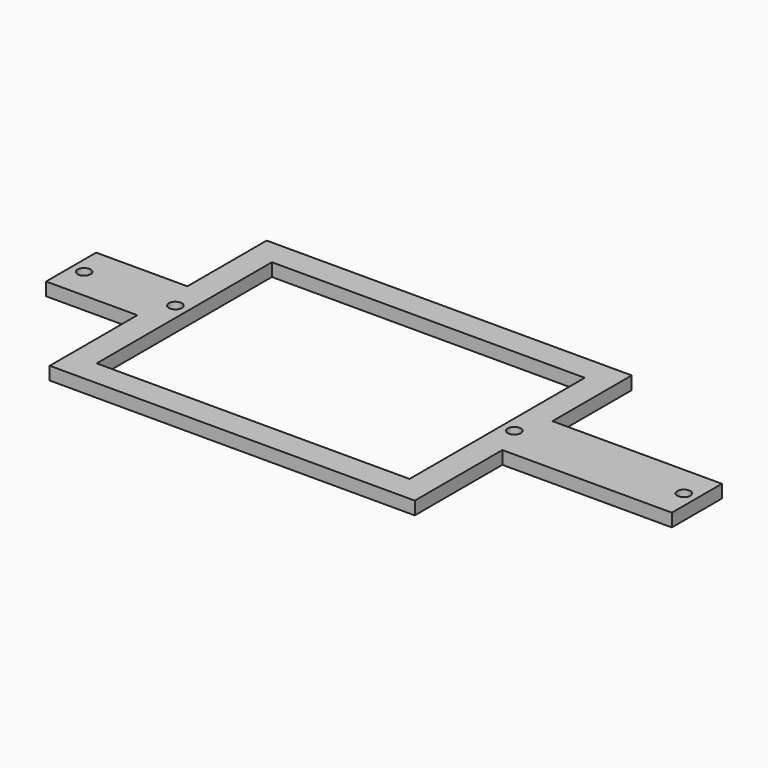
from build123d import *

# Parameters (mm, degrees)
BOX015_W               = 120
BOX015_H               = 30
BOX015_DEPTH           = 84
CYLINDER069_R          = 2.5
CYLINDER069_DEPTH      = 10
CYLINDER070_R          = 2.5
CYLINDER070_DEPTH      = 10
CYLINDER071_R          = 2.5
CYLINDER071_DEPTH      = 10
CYLINDER072_R          = 2.5
CYLINDER072_DEPTH      = 10
CYLINDER068_R          = 2.5
CYLINDER068_DEPTH      = 10
CYLINDER073_R          = 2.5
CYLINDER073_DEPTH      = 10
BOX009_W               = 240
BOX009_H               = 5
BOX009_DEPTH           = 24
BOX010_W               = 140
BOX010_H               = 5
BOX010_DEPTH           = 38
BOX011_W               = 140
BOX011_H               = 5
BOX011_DEPTH           = 42
CUT008_PLACEMENT_ANGLE = 270


with BuildPart() as gatewaycut001:
    # Box015 → Box015 (new body)
    with BuildSketch(Plane(origin=(-75, -3.2, -75), x_dir=(1, 0, 0), z_dir=(0, 0, 1))):
        with Locations((60, 15)):
            Rectangle(BOX015_W, BOX015_H)
    extrude(amount=BOX015_DEPTH)


with BuildPart() as cylinder069:
    # Cylinder069 → Cylinder069 (new body)
    with BuildSketch(Plane(origin=(115, 0, -31), x_dir=(1, 0, 0), z_dir=(0, -1, 0))):
        Circle(CYLINDER069_R)
    extrude(amount=CYLINDER069_DEPTH)


with BuildPart() as cylinder070:
    # Cylinder070 → Cylinder070 (new body)
    with BuildSketch(Plane(origin=(-80, 0, -31), x_dir=(1, 0, 0), z_dir=(0, -1, 0))):
        Circle(CYLINDER070_R)
    extrude(amount=CYLINDER070_DEPTH)


with BuildPart() as cylinder071:
    # Cylinder071 → Cylinder071 (new body)
    with BuildSketch(Plane(origin=(50, 0, -31), x_dir=(1, 0, 0), z_dir=(0, -1, 0))):
        Circle(CYLINDER071_R)
    extrude(amount=CYLINDER071_DEPTH)


with BuildPart() as cylinder072:
    # Cylinder072 → Cylinder072 (new body)
    with BuildSketch(Plane(origin=(-45.75, 0, -56.3), x_dir=(1, 0, 0), z_dir=(0, -1, 0))):
        Circle(CYLINDER072_R)
    extrude(amount=CYLINDER072_DEPTH)


with BuildPart() as cylinder068:
    # Cylinder068 → Cylinder068 (new body)
    with BuildSketch(Plane(origin=(-115, 0, -31), x_dir=(1, 0, 0), z_dir=(0, -1, 0))):
        Circle(CYLINDER068_R)
    extrude(amount=CYLINDER068_DEPTH)


with BuildPart() as m3heatsetinserts003:
    # Cylinder073 → Cylinder073 (new body)
    with BuildSketch(Plane(origin=(-45.75, 0, -1.3), x_dir=(1, 0, 0), z_dir=(0, -1, 0))):
        Circle(CYLINDER073_R)
    extrude(amount=CYLINDER073_DEPTH)

    # Fusion025: union Cylinder069, Cylinder070, Cylinder071, Cylinder072, Cylinder068
    add(cylinder069.part)
    add(cylinder070.part)
    add(cylinder071.part)
    add(cylinder072.part)
    add(cylinder068.part)


with BuildPart() as m3heatsetinserts003_1:
    # Fusion025 placement: moved
    add(m3heatsetinserts003.part.moved(Location((0, 5.1, 0))))


with BuildPart() as cube007:
    # Box009 → Box009 (new body)
    with BuildSketch(Plane(origin=(-120, 0, -43), x_dir=(1, 0, 0), z_dir=(0, 0, 1))):
        with Locations((120, 2.5)):
            Rectangle(BOX009_W, BOX009_H)
    extrude(amount=BOX009_DEPTH)


with BuildPart() as cube008:
    # Box010 → Box010 (new body)
    with BuildSketch(Plane(origin=(-85, 0, -19), x_dir=(1, 0, 0), z_dir=(0, 0, 1))):
        with Locations((70, 2.5)):
            Rectangle(BOX010_W, BOX010_H)
    extrude(amount=BOX010_DEPTH)


with BuildPart() as mainbase001:
    # Box011 → Box011 (new body)
    with BuildSketch(Plane(origin=(-85, 0, -85), x_dir=(1, 0, 0), z_dir=(0, 0, 1))):
        with Locations((70, 2.5)):
            Rectangle(BOX011_W, BOX011_H)
    extrude(amount=BOX011_DEPTH)

    # Fusion020: union Cube007, Cube008
    add(cube007.part)
    add(cube008.part)

    # Cut007: cut M3HeatSetInserts003
    add(m3heatsetinserts003_1.part, mode=Mode.SUBTRACT)

    # Cut008: cut GatewayCut001
    add(gatewaycut001.part, mode=Mode.SUBTRACT)


with BuildPart() as mainbase001_1:
    # Cut008 placement: moved
    add(mainbase001.part.rotate(Axis((0, 0, 0), (1, 0, 0)), CUT008_PLACEMENT_ANGLE))


solid = mainbase001_1.part
